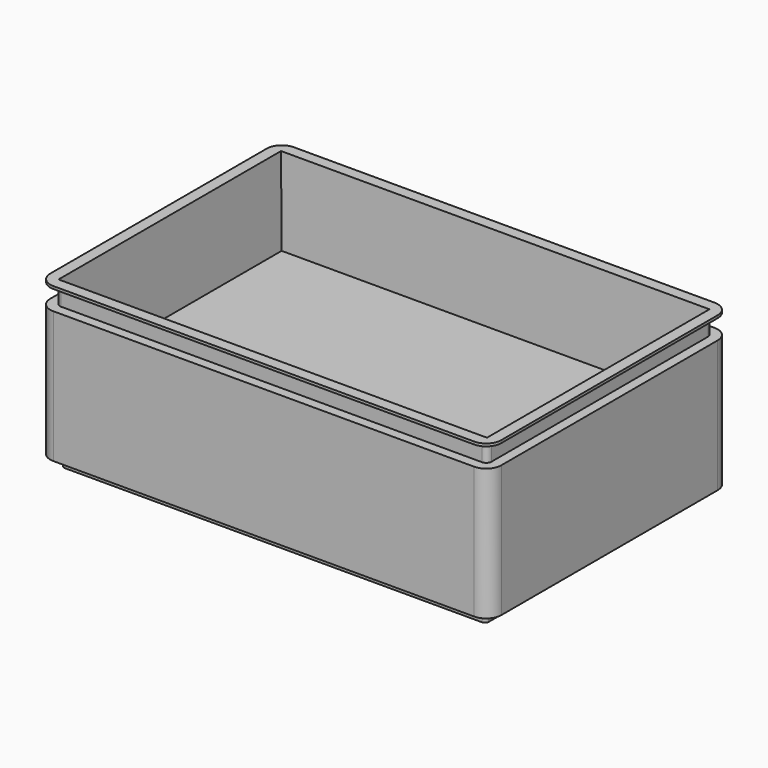
from build123d import *

# Parameters (mm, degrees)
F0_W     = 600
F0_H     = 400
F1_DEPTH = 220
F2_R     = 20
F4_DEPTH = 15
F7_DEPTH = 26
F8_W     = 570
F8_H     = 370
F9_DEPTH = 114
F9_TAPER = 2


with BuildPart() as f1:
    # F0 (on Top) → F1 (new body)
    with BuildSketch(Plane.XY):
        with Locations((8.6124254986, 0)):
            Rectangle(F0_W, F0_H)
    extrude(amount=F1_DEPTH)

    # F2
    f2_edges = [f1.edges().sort_by_distance(p)[0] for p in [
        (-291.387575, -200, 110),
        (308.612425, -200, 110),
        (308.612425, 200, 110),
        (-291.387575, 200, 110),
    ]]
    fillet(f2_edges, radius=F2_R)

    # F3 (on face) → F4 (cut)
    with BuildSketch(Plane(origin=(0, 0, 0), x_dir=(1, 0, 0), z_dir=(0, 0, -1))):
        with BuildLine():
            ThreePointArc((308.6124254986, 180), (302.7545611224, 194.1421356237), (288.6124254986, 200))
            Line((288.6124254986, 200), (-271.3875745014, 200))
            ThreePointArc((-271.3875745014, 200), (-285.5297101251, 194.1421356237), (-291.3875745014, 180))
            Line((-291.3875745014, 180), (-291.3875745014, -180))
            ThreePointArc((-291.3875745014, -180), (-285.5297101251, -194.1421356237), (-271.3875745014, -200))
            Line((-271.3875745014, -200), (288.6124254986, -200))
            ThreePointArc((288.6124254986, -200), (302.7545611224, -194.1421356237), (308.6124254986, -180))
            Line((308.6124254986, -180), (308.6124254986, 180))
        make_face()
        with BuildLine():
            ThreePointArc((-275.0983515568, 177.5), (-273.6338854627, 181.0355339059), (-270.0983515568, 182.5))
            Line((-270.0983515568, 182.5), (284.9016484432, 182.5))
            ThreePointArc((284.9016484432, 182.5), (288.4371823491, 181.0355339059), (289.9016484432, 177.5))
            Line((289.9016484432, 177.5), (289.9016484432, -177.5))
            ThreePointArc((289.9016484432, -177.5), (288.4371823491, -181.0355339059), (284.9016484432, -182.5))
            Line((284.9016484432, -182.5), (-270.0983515568, -182.5))
            ThreePointArc((-270.0983515568, -182.5), (-273.6338854627, -181.0355339059), (-275.0983515568, -177.5))
            Line((-275.0983515568, -177.5), (-275.0983515568, 177.5))
        make_face(mode=Mode.SUBTRACT)
    extrude(amount=-F4_DEPTH, mode=Mode.SUBTRACT)

    # F6 (on offset) → F7 (cut)
    with BuildSketch(Plane.XY.offset(216.5)):
        with BuildLine():
            ThreePointArc((-271.3875745014, 200), (-285.5297101251, 194.1421356237), (-291.3875745014, 180))
            Line((-291.3875745014, 180), (-291.3875745014, -180))
            ThreePointArc((-291.3875745014, -180), (-285.5297101251, -194.1421356237), (-271.3875745014, -200))
            Line((-271.3875745014, -200), (288.6124254986, -200))
            ThreePointArc((288.6124254986, -200), (302.7545611224, -194.1421356237), (308.6124254986, -180))
            Line((308.6124254986, -180), (308.6124254986, 180))
            ThreePointArc((308.6124254986, 180), (302.7545611224, 194.1421356237), (288.6124254986, 200))
            Line((288.6124254986, 200), (-271.3875745014, 200))
        make_face()
        with BuildLine():
            ThreePointArc((-278.3875745014, 180), (-276.3373219697, 184.9497474683), (-271.3875745014, 187))
            Line((-271.3875745014, 187), (288.6124254986, 187))
            ThreePointArc((288.6124254986, 187), (293.5621729669, 184.9497474683), (295.6124254986, 180))
            Line((295.6124254986, 180), (295.6124254986, -180))
            ThreePointArc((295.6124254986, -180), (293.5621729669, -184.9497474683), (288.6124254986, -187))
            Line((288.6124254986, -187), (-271.3875745014, -187))
            ThreePointArc((-271.3875745014, -187), (-276.3373219697, -184.9497474683), (-278.3875745014, -180))
            Line((-278.3875745014, -180), (-278.3875745014, 180))
        make_face(mode=Mode.SUBTRACT)
    extrude(amount=-F7_DEPTH, mode=Mode.SUBTRACT)

    # F8 (on face) → F9 (cut)
    with BuildSketch(Plane.XY.offset(220)):
        with Locations((8.6124254986, 0)):
            Rectangle(F8_W, F8_H)
    extrude(amount=-F9_DEPTH, taper=F9_TAPER, mode=Mode.SUBTRACT)


solid = f1.part
